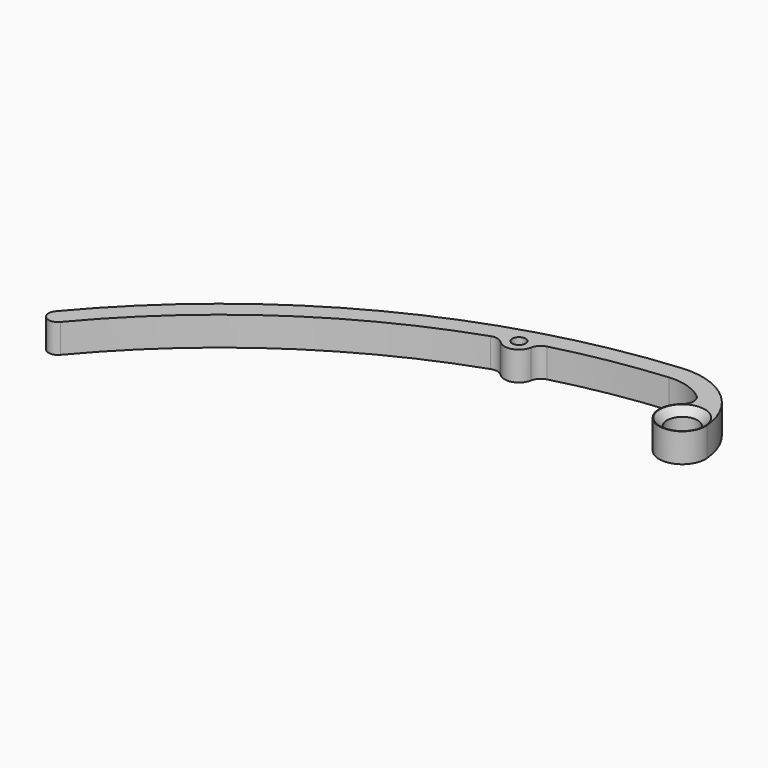
from build123d import *

# Parameters (mm, degrees)
PAD002_DEPTH            = 5
SKETCH016_R             = 1.15
POCKET004_DEPTH         = 5.001
POCKET004_DEPTH_BACK    = 0.001
BODY009_ROLL_ANGLE      = 180
BODY009_PLACEMENT_ANGLE = -175


with BuildPart() as part:
    # Sketch017 → Pad002 (new body)
    with BuildSketch(Plane.XY):
        with BuildLine():
            ThreePointArc((-4, 0), (0, -4), (4, 0))
            ThreePointArc((4, 0), (3.532704, 1.876167), (2.239999, 3.313971))
            ThreePointArc((1.995291, 6.433002), (1.366125, 4.814525), (2.239999, 3.313971))
            ThreePointArc((8, 8.800007), (4.772802, 8.186897), (1.995291, 6.433002))
            ThreePointArc((26.730076, 7.18322), (17.399864, 8.39506), (8, 8.800007))
            ThreePointArc((28.315082, 5.745576), (27.73102, 6.694204), (26.730076, 7.18322))
            ThreePointArc((28.315082, 5.745576), (30.204969, 3.966171), (32.655215, 4.823052))
            ThreePointArc((34.687932, 5.491725), (33.574624, 5.452108), (32.655215, 4.823052))
            ThreePointArc((85.286771, -23.213222), (61.932163, -5.432586), (34.687932, 5.491725))
            ThreePointArc((85.286771, -23.213222), (87.549513, -23.213222), (87.549513, -20.95048))
            ThreePointArc((87.549513, -20.95048), (51.051886, 3.436455), (8, 12.000007))
            ThreePointArc((8, 12.000007), (-0.485282, 8.485284), (-4, 0))
        make_face()
    extrude(amount=-PAD002_DEPTH)

    # Sketch016 → Pocket004 (cut, two sides)
    with BuildSketch(Plane.XY) as pocket004_sk:
        with Locations((30.724748, 6.411535)):
            Circle(SKETCH016_R)
    extrude(amount=-POCKET004_DEPTH, mode=Mode.SUBTRACT)
    extrude(pocket004_sk.sketch, amount=POCKET004_DEPTH_BACK, mode=Mode.SUBTRACT)

    # Sketch014 → Groove001 (revolve, cut)
    with BuildSketch(Plane.XZ):
        Polygon((0, 0), (3.9, 0), (2.65, -1.25), (2.65, -3.75), (3.9, -5), (0, -5), align=None)
    revolve(axis=Axis((0, 0, 0), (0, 0, 1)), mode=Mode.SUBTRACT)


with BuildPart() as part_1:
    # Body009 roll: moved
    add(part.part.rotate(Axis((0, 0, 0), (1, 0, 0)), BODY009_ROLL_ANGLE))


with BuildPart() as part_2:
    # Body009 placement: moved
    add(part_1.part.moved(Location((-10, 0, -11))).rotate(Axis((-10, 0, -11), (0, 0, 1)), BODY009_PLACEMENT_ANGLE))


solid = part_2.part
